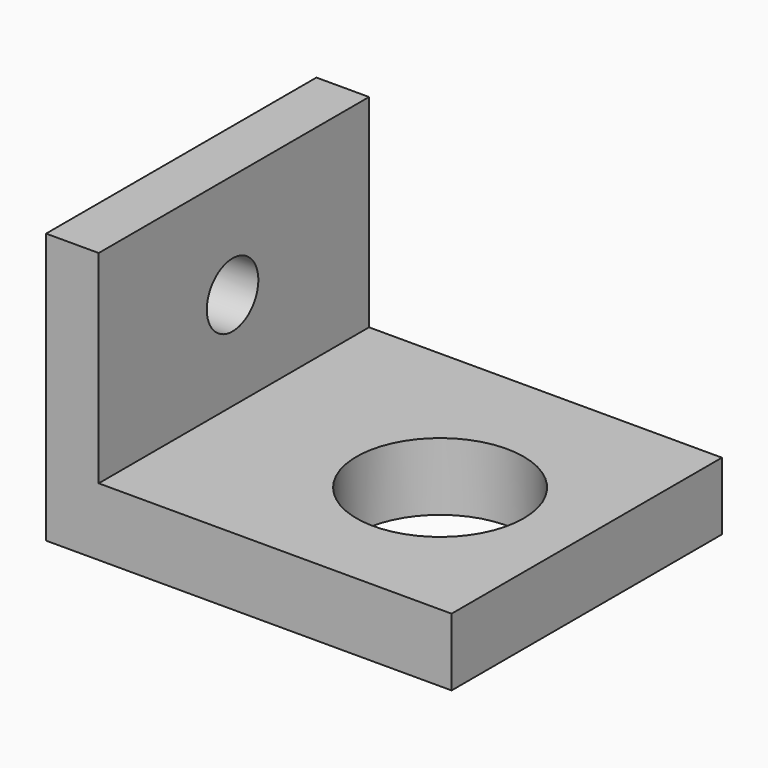
from build123d import *

# Parameters (mm, degrees)
F0_W     = 3.893223
F0_H     = 25
F2_DEPTH = 20
F0_W_2   = 26.106777
F3_DEPTH = 5
F4_R     = 2.38125
F5_DEPTH = 25
F6_R     = 6.184118
F7_DEPTH = 6


with BuildPart() as f2:
    # F0 (on Top) → F2 (new body)
    with BuildSketch(Plane.XY):
        with Locations((-11.537091, 4.933417)):
            Rectangle(F0_W, F0_H)
    extrude(amount=F2_DEPTH)

    # F0 (on Top) → F3 (join)
    with BuildSketch(Plane.XY):
        with Locations((-11.537091, 4.933417)):
            Rectangle(F0_W, F0_H)
        with Locations((3.462908, 4.933417)):
            Rectangle(F0_W_2, F0_H)
    extrude(amount=F3_DEPTH)

    # F4 (on face) → F5 (cut)
    with BuildSketch(Plane(origin=(-13.483703, 0, 0), x_dir=(0, -1, 0), z_dir=(-1, 0, 0))):
        with Locations((-4.812612, 12.244398)):
            Circle(F4_R)
    extrude(amount=-F5_DEPTH, mode=Mode.SUBTRACT)

    # F6 (on face) → F7 (cut)
    with BuildSketch(Plane.XY.offset(5)):
        with Locations((6.136364, 4.346591)):
            Circle(F6_R)
    extrude(amount=-F7_DEPTH, mode=Mode.SUBTRACT)


solid = f2.part
